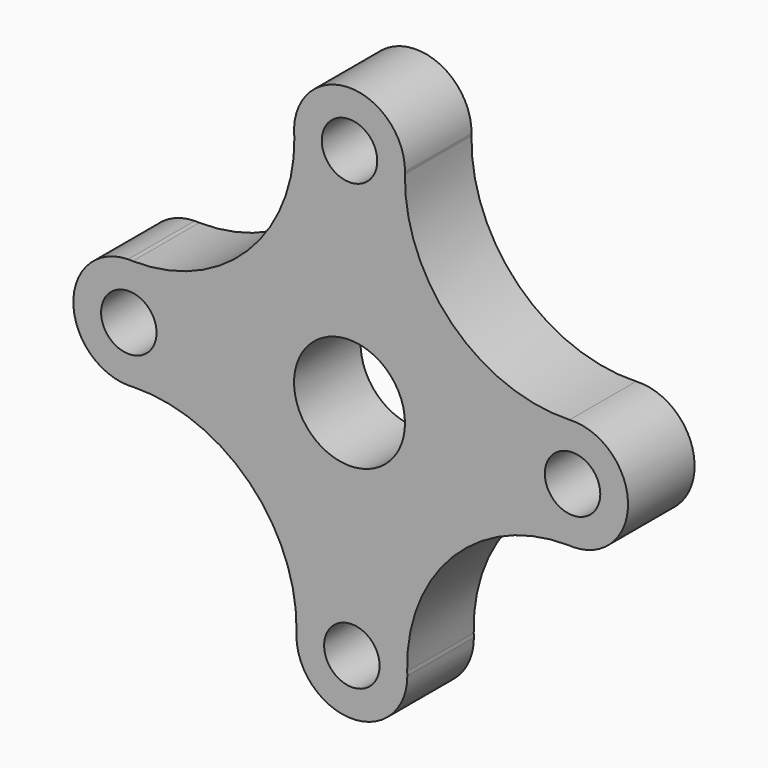
from build123d import *

# Parameters (mm, degrees)
F0_R     = 6.35
F0_R_2   = 12.7
F1_DEPTH = 19.05


with BuildPart() as f1:
    # F0 (on Front) → F1 (new body)
    with BuildSketch(Plane.XZ):
        with BuildLine():
            ThreePointArc((12.699373, 50.673819), (12.692663, 50.452898), (12.687289, 50.23194))
            ThreePointArc((12.687289, 50.23194), (12.695254, 50.452827), (12.699373, 50.673819))
        make_face()
        with BuildLine():
            ThreePointArc((50.386509, 12.948368), (23.520557, 23.484444), (12.687289, 50.23194))
            ThreePointArc((12.687289, 50.23194), (12.692663, 50.452898), (12.699373, 50.673819))
            ThreePointArc((12.699373, 50.673819), (0.294418, 63.496587), (-12.691572, 51.262603))
            ThreePointArc((-12.691572, 51.262603), (-12.643233, 50.317483), (-12.619397, 49.371427))
            ThreePointArc((-12.619397, 49.371427), (-23.337796, 23.0742), (-49.654186, 12.402939))
            ThreePointArc((-49.654186, 12.402939), (-50.174695, 12.413951), (-50.694995, 12.432382))
            ThreePointArc((-50.694995, 12.432382), (-63.23341, -0.268588), (-50.691, -12.965612))
            ThreePointArc((-50.691, -12.965612), (-50.048439, -12.935346), (-49.405445, -12.9164))
            ThreePointArc((-49.405445, -12.9164), (-22.95903, -23.472299), (-12.127956, -49.807215))
            ThreePointArc((-12.127956, -49.807215), (-12.14013, -50.447976), (-12.163544, -51.088425))
            ThreePointArc((-12.163544, -51.088425), (0.690436, -63.499026), (13.233154, -50.773931))
            ThreePointArc((13.233154, -50.773931), (13.212807, -50.31613), (13.198205, -49.858111))
            ThreePointArc((13.198205, -49.858111), (23.711927, -23.269536), (50.157375, -12.400822))
            ThreePointArc((50.157375, -12.400822), (50.717305, -12.411952), (51.276998, -12.431667))
            ThreePointArc((51.276998, -12.431667), (63.75878, 0.711911), (50.386509, 12.948368))
        make_face()
        with Locations((-50.53341, -0.26659)):
            Circle(F0_R, mode=Mode.SUBTRACT)
        with Locations((0.53318, -50.8)):
            Circle(F0_R, mode=Mode.SUBTRACT)
        Circle(F0_R_2, mode=Mode.SUBTRACT)
        with Locations((0, 50.8)):
            Circle(F0_R, mode=Mode.SUBTRACT)
        with Locations((51.06659, 0.26659)):
            Circle(F0_R, mode=Mode.SUBTRACT)
        with BuildLine():
            ThreePointArc((-12.619397, 49.371427), (-12.643233, 50.317483), (-12.691572, 51.262603))
            ThreePointArc((-12.691572, 51.262603), (-12.690761, 50.315669), (-12.619397, 49.371427))
        make_face()
        with BuildLine():
            ThreePointArc((50.157375, -12.400822), (50.716846, -12.428593), (51.276998, -12.431667))
            ThreePointArc((51.276998, -12.431667), (50.717305, -12.411952), (50.157375, -12.400822))
        make_face()
        with BuildLine():
            ThreePointArc((-50.694995, 12.432382), (-50.174695, 12.413951), (-49.654186, 12.402939))
            ThreePointArc((-49.654186, 12.402939), (-50.174289, 12.428331), (-50.694995, 12.432382))
        make_face()
        with BuildLine():
            ThreePointArc((13.233154, -50.773931), (13.223943, -50.315706), (13.198205, -49.858111))
            ThreePointArc((13.198205, -49.858111), (13.212807, -50.31613), (13.233154, -50.773931))
        make_face()
        with BuildLine():
            ThreePointArc((-49.405445, -12.9164), (-50.048439, -12.935346), (-50.691, -12.965612))
            ThreePointArc((-50.691, -12.965612), (-50.047599, -12.957295), (-49.405445, -12.9164))
        make_face()
        with BuildLine():
            ThreePointArc((-12.127956, -49.807215), (-12.161923, -50.44737), (-12.163544, -51.088425))
            ThreePointArc((-12.163544, -51.088425), (-12.14013, -50.447976), (-12.127956, -49.807215))
        make_face()
    extrude(amount=F1_DEPTH)


solid = f1.part
